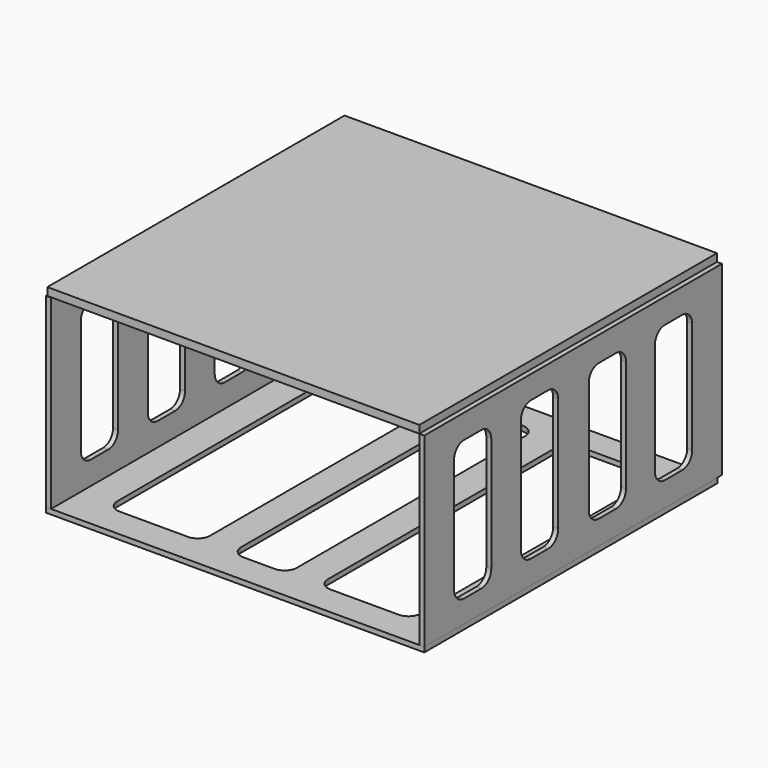
from build123d import *

# Parameters (mm, degrees)
F2_W      = 1220
F2_H      = 1182.220281
F3_DEPTH  = 16
F4_W      = 16
F4_H      = 1182.220281
F5_DEPTH  = 600
F7_DEPTH  = 16
F8_W      = 16
F8_H      = 1200
F8_H_2    = 1182.220281
F9_DEPTH  = 600
F11_DEPTH = 16
F13_DEPTH = 25


with BuildPart() as f3:
    # F2 (on face) → F3 (new body)
    with BuildSketch(Plane.XY):
        with Locations((46.106624, 100.405485)):
            Rectangle(F2_W, F2_H)
        with BuildLine():
            Line((-443.893376, -354.038735), (-443.893376, 565.961265))
            ThreePointArc((-443.893376, 565.961265), (-432.177647, 594.245536), (-403.893376, 605.961265))
            Line((-403.893376, 605.961265), (-183.893376, 605.961265))
            ThreePointArc((-183.893376, 605.961265), (-155.609105, 594.245536), (-143.893376, 565.961265))
            Line((-143.893376, 565.961265), (-143.893376, -354.038735))
            ThreePointArc((-143.893376, -354.038735), (-155.609105, -382.323006), (-183.893376, -394.038735))
            Line((-183.893376, -394.038735), (-403.893376, -394.038735))
            ThreePointArc((-403.893376, -394.038735), (-432.177647, -382.323006), (-443.893376, -354.038735))
        make_face(mode=Mode.SUBTRACT)
        with BuildLine():
            Line((-43.893376, -354.038735), (-43.893376, 565.961265))
            ThreePointArc((-43.893376, 565.961265), (-32.177647, 594.245536), (-3.893376, 605.961265))
            Line((-3.893376, 605.961265), (96.106624, 605.961265))
            ThreePointArc((96.106624, 605.961265), (124.390895, 594.245536), (136.106624, 565.961265))
            Line((136.106624, 565.961265), (136.106624, -354.038735))
            ThreePointArc((136.106624, -354.038735), (124.390895, -382.323006), (96.106624, -394.038735))
            Line((96.106624, -394.038735), (-3.893376, -394.038735))
            ThreePointArc((-3.893376, -394.038735), (-32.177647, -382.323006), (-43.893376, -354.038735))
        make_face(mode=Mode.SUBTRACT)
        with BuildLine():
            ThreePointArc((536.106624, -354.038735), (524.390895, -382.323006), (496.106624, -394.038735))
            Line((496.106624, -394.038735), (276.106624, -394.038735))
            ThreePointArc((276.106624, -394.038735), (247.822353, -382.323006), (236.106624, -354.038735))
            Line((236.106624, -354.038735), (236.106624, 565.961265))
            ThreePointArc((236.106624, 565.961265), (247.822353, 594.245536), (276.106624, 605.961265))
            Line((276.106624, 605.961265), (496.106624, 605.961265))
            ThreePointArc((496.106624, 605.961265), (524.390895, 594.245536), (536.106624, 565.961265))
            Line((536.106624, 565.961265), (536.106624, -354.038735))
        make_face(mode=Mode.SUBTRACT)
    extrude(amount=F3_DEPTH)


with BuildPart() as f5:
    # F4 (on face) → F5 (new body)
    with BuildSketch(Plane.XY.offset(16)):
        with Locations((-555.893376, 100.405485)):
            Rectangle(F4_W, F4_H)
    extrude(amount=F5_DEPTH)

    # F6 (on face) → F7 (cut)
    with BuildSketch(Plane.YZ.offset(-547.893376)):
        with BuildLine():
            ThreePointArc((-100.704656, 131), (-88.988927, 102.715729), (-60.704656, 91))
            Line((-60.704656, 91), (9.295344, 91))
            ThreePointArc((9.295344, 91), (37.579616, 102.715729), (49.295344, 131))
            Line((49.295344, 131), (49.295344, 501))
            ThreePointArc((49.295344, 501), (37.579616, 529.284271), (9.295344, 541))
            Line((9.295344, 541), (-60.704656, 541))
            ThreePointArc((-60.704656, 541), (-88.988927, 529.284271), (-100.704656, 501))
            Line((-100.704656, 501), (-100.704656, 131))
        make_face()
        with BuildLine():
            ThreePointArc((421.515625, 131), (433.231353, 102.715729), (461.515625, 91))
            Line((461.515625, 91), (531.515625, 91))
            ThreePointArc((531.515625, 91), (559.799896, 102.715729), (571.515625, 131))
            Line((571.515625, 131), (571.515625, 501))
            ThreePointArc((571.515625, 501), (559.799896, 529.284271), (531.515625, 541))
            Line((531.515625, 541), (461.515625, 541))
            ThreePointArc((461.515625, 541), (433.231353, 529.284271), (421.515625, 501))
            Line((421.515625, 501), (421.515625, 131))
        make_face()
        with BuildLine():
            Line((279.295344, 541), (209.295344, 541))
            ThreePointArc((209.295344, 541), (181.011073, 529.284271), (169.295344, 501))
            Line((169.295344, 501), (169.295344, 131))
            ThreePointArc((169.295344, 131), (181.011073, 102.715729), (209.295344, 91))
            Line((209.295344, 91), (279.295344, 91))
            ThreePointArc((279.295344, 91), (307.579616, 102.715729), (319.295344, 131))
            Line((319.295344, 131), (319.295344, 501))
            ThreePointArc((319.295344, 501), (307.579616, 529.284271), (279.295344, 541))
        make_face()
        with BuildLine():
            Line((-260.704656, 541), (-330.704656, 541))
            ThreePointArc((-330.704656, 541), (-358.988927, 529.284271), (-370.704656, 501))
            Line((-370.704656, 501), (-370.704656, 131))
            ThreePointArc((-370.704656, 131), (-358.988927, 102.715729), (-330.704656, 91))
            Line((-330.704656, 91), (-260.704656, 91))
            ThreePointArc((-260.704656, 91), (-232.420384, 102.715729), (-220.704656, 131))
            Line((-220.704656, 131), (-220.704656, 501))
            ThreePointArc((-220.704656, 501), (-232.420384, 529.284271), (-260.704656, 541))
        make_face()
    extrude(amount=-F7_DEPTH, mode=Mode.SUBTRACT)



with BuildPart() as f9:
    # F8 (on face) → F9 (new body)
    with BuildSketch(Plane.XY.offset(16)):
        with Locations((648.106624, 109.295344)):
            Rectangle(F8_W, F8_H)
        with Locations((648.106624, 100.405485)):
            Rectangle(F8_W, F8_H_2)
    extrude(amount=F9_DEPTH)

    # F10 (on face) → F11 (cut)
    with BuildSketch(Plane.YZ.offset(656.106624)):
        with BuildLine():
            ThreePointArc((-101.046969, 131.516037), (-89.33124, 103.231766), (-61.046969, 91.516037))
            Line((-61.046969, 91.516037), (8.953031, 91.516037))
            ThreePointArc((8.953031, 91.516037), (37.237303, 103.231766), (48.953031, 131.516037))
            Line((48.953031, 131.516037), (48.953031, 501.620677))
            ThreePointArc((48.953031, 501.620677), (37.237303, 529.904948), (8.953031, 541.620677))
            Line((8.953031, 541.620677), (-61.046969, 541.620677))
            ThreePointArc((-61.046969, 541.620677), (-89.33124, 529.904948), (-101.046969, 501.620677))
            Line((-101.046969, 501.620677), (-101.046969, 131.516037))
        make_face()
        with BuildLine():
            ThreePointArc((172.43438, 133.795037), (184.150109, 105.510766), (212.43438, 93.795037))
            Line((212.43438, 93.795037), (282.43438, 93.795037))
            ThreePointArc((282.43438, 93.795037), (310.718652, 105.510766), (322.43438, 133.795037))
            Line((322.43438, 133.795037), (322.43438, 495.923147))
            ThreePointArc((322.43438, 495.923147), (310.718652, 524.207419), (282.43438, 535.923147))
            Line((282.43438, 535.923147), (212.43438, 535.923147))
            ThreePointArc((212.43438, 535.923147), (184.150109, 524.207419), (172.43438, 495.923147))
            Line((172.43438, 495.923147), (172.43438, 133.795037))
        make_face()
        with BuildLine():
            ThreePointArc((-370.704656, 128.097508), (-358.988927, 99.813237), (-330.704656, 88.097508))
            Line((-330.704656, 88.097508), (-260.704656, 88.097508))
            ThreePointArc((-260.704656, 88.097508), (-232.420384, 99.813237), (-220.704656, 128.097508))
            Line((-220.704656, 128.097508), (-220.704656, 498.202147))
            ThreePointArc((-220.704656, 498.202147), (-232.420384, 526.486418), (-260.704656, 538.202147))
            Line((-260.704656, 538.202147), (-330.704656, 538.202147))
            ThreePointArc((-330.704656, 538.202147), (-358.988927, 526.486418), (-370.704656, 498.202147))
            Line((-370.704656, 498.202147), (-370.704656, 128.097508))
        make_face()
        with BuildLine():
            ThreePointArc((439.295344, 134.934567), (451.011073, 106.650296), (479.295344, 94.934567))
            Line((479.295344, 94.934567), (549.295344, 94.934567))
            ThreePointArc((549.295344, 94.934567), (577.579616, 106.650296), (589.295344, 134.934567))
            Line((589.295344, 134.934567), (589.295344, 495.923147))
            ThreePointArc((589.295344, 495.923147), (577.579616, 524.207419), (549.295344, 535.923147))
            Line((549.295344, 535.923147), (479.295344, 535.923147))
            ThreePointArc((479.295344, 535.923147), (451.011073, 524.207419), (439.295344, 495.923147))
            Line((439.295344, 495.923147), (439.295344, 134.934567))
        make_face()
    extrude(amount=-F11_DEPTH, mode=Mode.SUBTRACT)


with BuildPart() as f5_1:
    add(f5.part)

    add(f9.part)  # F13 merges F9
    # F12 (on face) → F13 (join)
    with BuildSketch(Plane.XY.offset(616)):
        Polygon((-561.31947, -488.875598), (640.106624, -490.704656), (640.106624, 709.295344), (-561.31947, 709.295344), align=None)
    extrude(amount=F13_DEPTH)


solid = Compound([f3.part, f5_1.part])
